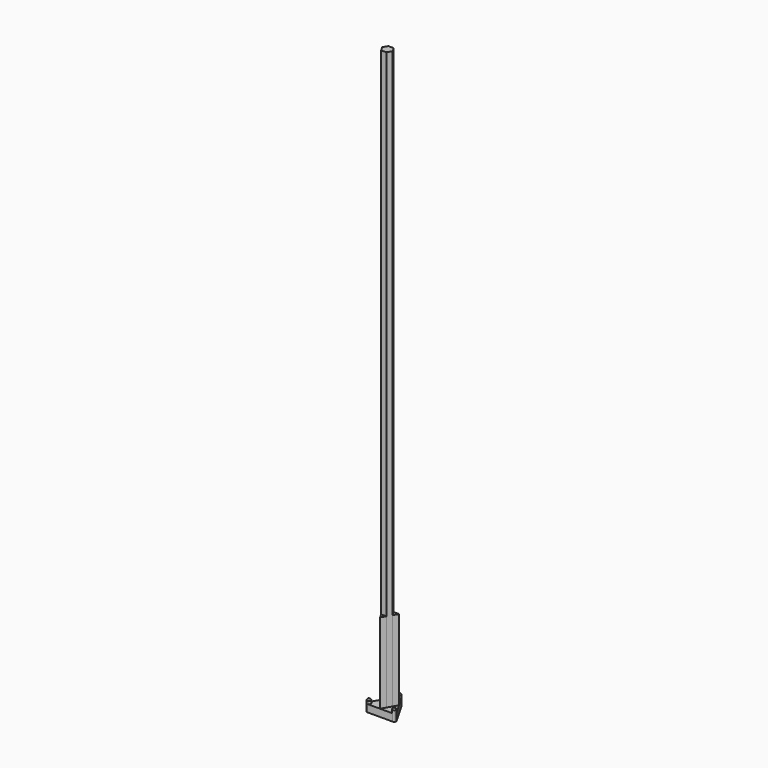
from build123d import *

# Parameters (mm, degrees)
F1_DEPTH  = 5
F2_DEPTH  = 60
F3_DEPTH  = 400
F4_DEPTH  = 8
F5_SIZE   = 1
F5_2_SIZE = 1
F5_3_SIZE = 1


with BuildPart() as f1:
    # F0 (on Top) → F1 (new body)
    with BuildSketch(Plane.XY):
        with BuildLine():
            ThreePointArc((-1.2972508431, 9.9155), (-1.435256889, 9.8964659178), (-1.5729843808, 9.875511133))
            Line((-1.5729843808, 9.875511133), (-5.4559600438, 3.15))
            Line((-5.4559600438, 3.15), (-1.8186533479, 3.15))
            Line((-1.8186533479, 3.15), (0, 6.3))
            Line((0, 6.3), (0, 8.7))
            ThreePointArc((0, 8.7), (-0.8888616315, 9.0513562312), (-1.2972508431, 9.9155))
        make_face()
        with BuildLine():
            ThreePointArc((1.2972508431, 9.9155), (0.8888616315, 9.0513562312), (0, 8.7))
            Line((0, 8.7), (0, 6.3))
            Line((0, 6.3), (1.8186533479, 3.15))
            Line((1.8186533479, 3.15), (5.4559600438, 3.15))
            Line((5.4559600438, 3.15), (1.5729843808, 9.875511133))
            ThreePointArc((1.5729843808, 9.875511133), (1.435256889, 9.8964659178), (1.2972508431, 9.9155))
        make_face()
        Polygon((-5.4559600438, 3.15), (-7.2746133918, 0), (-3.6373066959, 0), align=None)
        with BuildLine():
            Line((-3.6373066959, 0), (-7.2746133918, 0))
            Line((-7.2746133918, 0), (-9.3389357069, -3.575511133))
            ThreePointArc((-9.3389357069, -3.575511133), (-9.288219337, -3.7052640321), (-9.2357003128, -3.8342978148))
            ThreePointArc((-9.2357003128, -3.8342978148), (-8.2831352507, -3.7559013623), (-7.5344210129, -4.35))
            Line((-7.5344210129, -4.35), (-5.4559600438, -3.15))
            Line((-5.4559600438, -3.15), (-3.6373066959, 0))
        make_face()
        with BuildLine():
            Line((-1.8186533479, -3.15), (-5.4559600438, -3.15))
            Line((-5.4559600438, -3.15), (-7.5344210129, -4.35))
            ThreePointArc((-7.5344210129, -4.35), (-7.4045504637, -4.6635352414), (-7.3602540378, -5))
            ThreePointArc((-7.3602540378, -5), (-7.513880203, -5.6130473315), (-7.9384494697, -6.0812021852))
            ThreePointArc((-7.9384494697, -6.0812021852), (-7.852962448, -6.1912018858), (-7.7659513261, -6.3))
            Line((-7.7659513261, -6.3), (0, -6.3))
            Line((0, -6.3), (-1.8186533479, -3.15))
        make_face()
        with BuildLine():
            Line((1.8186533479, -3.15), (0, -6.3))
            Line((0, -6.3), (7.7659513261, -6.3))
            ThreePointArc((7.7659513261, -6.3), (7.852962448, -6.1912018858), (7.9384494697, -6.0812021852))
            ThreePointArc((7.9384494697, -6.0812021852), (7.3942736192, -5.295454869), (7.5344210129, -4.35))
            Line((7.5344210129, -4.35), (5.4559600438, -3.15))
            Line((5.4559600438, -3.15), (1.8186533479, -3.15))
        make_face()
        with BuildLine():
            Line((3.6373066959, 0), (5.4559600438, -3.15))
            Line((5.4559600438, -3.15), (7.5344210129, -4.35))
            ThreePointArc((7.5344210129, -4.35), (8.2831352507, -3.7559013623), (9.2357003128, -3.8342978148))
            ThreePointArc((9.2357003128, -3.8342978148), (9.288219337, -3.7052640321), (9.3389357069, -3.575511133))
            Line((9.3389357069, -3.575511133), (7.2746133918, 0))
            Line((7.2746133918, 0), (3.6373066959, 0))
        make_face()
        Polygon((5.4559600438, 3.15), (3.6373066959, 0), (7.2746133918, 0), align=None)
        Polygon((-5.4559600438, 3.15), (-3.6373066959, 0), (-1.8186533479, 3.15), align=None)
        Polygon((1.8186533479, -3.15), (-1.8186533479, -3.15), (0, -6.3), align=None)
        Polygon((5.4559600438, 3.15), (1.8186533479, 3.15), (3.6373066959, 0), align=None)
        with BuildLine():
            Line((1.5729843808, 9.875511133), (1.125833032, 10.6499999878))
            ThreePointArc((1.125833032, 10.6499999878), (1.255703576, 10.3364647518), (1.3, 10))
            ThreePointArc((1.3, 10), (1.299312529, 9.9577276454), (1.2972508431, 9.9155))
            ThreePointArc((1.2972508431, 9.9155), (1.435256889, 9.8964659178), (1.5729843808, 9.875511133))
        make_face()
        with BuildLine():
            Line((-1.1258330062, 10.6500000324), (-1.5729843808, 9.875511133))
            ThreePointArc((-1.5729843808, 9.875511133), (-1.435256889, 9.8964659178), (-1.2972508431, 9.9155))
            ThreePointArc((-1.2972508431, 9.9155), (-1.2659804144, 10.2954548872), (-1.1258330062, 10.6500000324))
        make_face()
        with BuildLine():
            ThreePointArc((-9.2357003128, -3.8342978148), (-9.288219337, -3.7052640321), (-9.3389357069, -3.575511133))
            Line((-9.3389357069, -3.575511133), (-9.7860870951, -4.3500000559))
            ThreePointArc((-9.7860870951, -4.3500000559), (-9.5491156929, -4.0513562533), (-9.2357003128, -3.8342978148))
        make_face()
        with BuildLine():
            ThreePointArc((-7.9384494697, -6.0812021852), (-8.2831352461, -6.2440986363), (-8.6602540282, -6.3))
            Line((-8.6602540282, -6.3), (-7.7659513261, -6.3))
            ThreePointArc((-7.7659513261, -6.3), (-7.852962448, -6.1912018858), (-7.9384494697, -6.0812021852))
        make_face()
        with BuildLine():
            ThreePointArc((9.3389357069, -3.575511133), (9.288219337, -3.7052640321), (9.2357003128, -3.8342978148))
            ThreePointArc((9.2357003128, -3.8342978148), (9.5491156757, -4.0513562371), (9.7860870714, -4.3500000149))
            Line((9.7860870714, -4.3500000149), (9.3389357069, -3.575511133))
        make_face()
        with BuildLine():
            ThreePointArc((7.9384494697, -6.0812021852), (7.852962448, -6.1912018858), (7.7659513261, -6.3))
            Line((7.7659513261, -6.3), (8.6602540378, -6.3))
            ThreePointArc((8.6602540378, -6.3), (8.2831352507, -6.2440986377), (7.9384494697, -6.0812021852))
        make_face()
        Polygon((3.6373066959, 0), (2.7279800219, -1.575), (5.4559600438, -3.15), align=None)
        Polygon((5.4559600438, -3.15), (2.7279800219, -1.575), (1.8186533479, -3.15), align=None)
        Polygon((-2.7279800219, -1.575), (-3.6373066959, 0), (-5.4559600438, -3.15), align=None)
        Polygon((-1.8186533479, -3.15), (-2.7279800219, -1.575), (-5.4559600438, -3.15), align=None)
        Polygon((0, 6.3), (-1.8186533479, 3.15), (0, 3.15), align=None)
        Polygon((0, 6.3), (0, 3.15), (1.8186533479, 3.15), align=None)
    extrude(amount=F1_DEPTH)


with BuildPart() as f2:
    # F0 (on Top) → F2 (new body)
    with BuildSketch(Plane.XY):
        Polygon((-5.4559600438, 3.15), (-3.6373066959, 0), (-1.8186533479, 3.15), align=None)
    extrude(amount=F2_DEPTH)


with BuildPart() as f2b:
    # F0 (on Top) → F2, piece 2 (new body)
    with BuildSketch(Plane.XY):
        Polygon((1.8186533479, -3.15), (-1.8186533479, -3.15), (0, -6.3), align=None)
    extrude(amount=F2_DEPTH)


with BuildPart() as f2c:
    # F0 (on Top) → F2, piece 3 (new body)
    with BuildSketch(Plane.XY):
        Polygon((5.4559600438, 3.15), (1.8186533479, 3.15), (3.6373066959, 0), align=None)
    extrude(amount=F2_DEPTH)


with BuildPart() as f3:
    # F0 (on Top) → F3 (new body)
    with BuildSketch(Plane.XY):
        Polygon((1.8186533479, 3.15), (0, 3.15), (1.8186533479, 0), (3.6373066959, 0), align=None)
        Polygon((-1.8186533479, 3.15), (-3.6373066959, 0), (-1.8186533479, 0), (0, 3.15), align=None)
        Polygon((-1.8186533479, 0), (-3.6373066959, 0), (-2.7279800219, -1.575), align=None)
        Polygon((2.7279800219, -1.575), (-2.7279800219, -1.575), (-1.8186533479, -3.15), (1.8186533479, -3.15), align=None)
        Polygon((1.8186533479, 0), (2.7279800219, -1.575), (3.6373066959, 0), align=None)
        Polygon((1.8186533479, 0), (0, 0), (2.7279800219, -1.575), align=None)
        Polygon((0, 0), (-2.7279800219, -1.575), (2.7279800219, -1.575), align=None)
        Polygon((0, 0), (-1.8186533479, 0), (-2.7279800219, -1.575), align=None)
        Polygon((0, 3.15), (-1.8186533479, 0), (0, 0), align=None)
        Polygon((2.7279800219, -1.575), (-2.7279800219, -1.575), (-1.8186533479, -3.15), (1.8186533479, -3.15), align=None)
        Polygon((0, 0), (-2.7279800219, -1.575), (2.7279800219, -1.575), align=None)
        Polygon((0, 0), (-1.8186533479, 0), (-2.7279800219, -1.575), align=None)
        Polygon((-1.8186533479, 0), (-3.6373066959, 0), (-2.7279800219, -1.575), align=None)
        Polygon((-1.8186533479, 3.15), (-3.6373066959, 0), (-1.8186533479, 0), (0, 3.15), align=None)
        Polygon((1.8186533479, 3.15), (0, 3.15), (1.8186533479, 0), (3.6373066959, 0), align=None)
        Polygon((1.8186533479, 0), (2.7279800219, -1.575), (3.6373066959, 0), align=None)
        Polygon((0, 3.15), (-1.8186533479, 0), (0, 0), align=None)
        Polygon((0, 3.15), (0, 0), (1.8186533479, 0), align=None)
    extrude(amount=F3_DEPTH)


with BuildPart() as f4:
    # F0 (on Top) → F4 (new body)
    with BuildSketch(Plane.XY):
        with BuildLine():
            ThreePointArc((0, 11.3), (-0.6499999838, 11.1258330343), (-1.1258330062, 10.6500000324))
            ThreePointArc((-1.1258330062, 10.6500000324), (-1.2659804144, 10.2954548872), (-1.2972508431, 9.9155))
            ThreePointArc((-1.2972508431, 9.9155), (-0.65, 9.9788526395), (0, 10))
            Line((0, 10), (0, 11.3))
        make_face()
        with BuildLine():
            ThreePointArc((0, 10), (-0.65, 9.9788526395), (-1.2972508431, 9.9155))
            ThreePointArc((-1.2972508431, 9.9155), (-0.8888616315, 9.0513562312), (0, 8.7))
            Line((0, 8.7), (0, 10))
        make_face()
        with BuildLine():
            ThreePointArc((1.2972508431, 9.9155), (0.65, 9.9788526395), (0, 10))
            Line((0, 10), (0, 8.7))
            ThreePointArc((0, 8.7), (0.8888616315, 9.0513562312), (1.2972508431, 9.9155))
        make_face()
        with BuildLine():
            ThreePointArc((1.125833032, 10.6499999878), (0.6500000061, 11.1258330214), (0, 11.3))
            Line((0, 11.3), (0, 10))
            ThreePointArc((0, 10), (0.65, 9.9788526395), (1.2972508431, 9.9155))
            ThreePointArc((1.2972508431, 9.9155), (1.299312529, 9.9577276454), (1.3, 10))
            ThreePointArc((1.3, 10), (1.255703576, 10.3364647518), (1.125833032, 10.6499999878))
        make_face()
    extrude(amount=F4_DEPTH)

    # F5#3
    f5_3_edges = [f4.edges().sort_by_distance(p)[0] for p in [
        (-1.297251, 10.0845, 8),
    ]]
    chamfer(f5_3_edges, length=F5_3_SIZE)


with BuildPart() as f4b:
    # F0 (on Top) → F4, piece 2 (new body)
    with BuildSketch(Plane.XY):
        with BuildLine():
            ThreePointArc((-9.2357003128, -3.8342978148), (-9.5491156929, -4.0513562533), (-9.7860870951, -4.3500000559))
            ThreePointArc((-9.7860870951, -4.3500000559), (-9.9602540378, -5.0000000323), (-9.7860870628, -5.65))
            Line((-9.7860870628, -5.65), (-8.6602540378, -5))
            ThreePointArc((-8.6602540378, -5), (-8.9669398864, -4.4265098073), (-9.2357003128, -3.8342978148))
        make_face()
        with BuildLine():
            Line((-8.6602540378, -5), (-9.7860870628, -5.65))
            ThreePointArc((-9.7860870628, -5.65), (-9.3102540337, -6.1258330273), (-8.6602540282, -6.3))
            ThreePointArc((-8.6602540282, -6.3), (-8.2831352461, -6.2440986363), (-7.9384494697, -6.0812021852))
            ThreePointArc((-7.9384494697, -6.0812021852), (-8.3169398864, -5.5523428322), (-8.6602540378, -5))
        make_face()
        with BuildLine():
            Line((-7.5344210129, -4.35), (-8.6602540378, -5))
            ThreePointArc((-8.6602540378, -5), (-8.3169398864, -5.5523428322), (-7.9384494697, -6.0812021852))
            ThreePointArc((-7.9384494697, -6.0812021852), (-7.513880203, -5.6130473315), (-7.3602540378, -5))
            ThreePointArc((-7.3602540378, -5), (-7.4045504637, -4.6635352414), (-7.5344210129, -4.35))
        make_face()
        with BuildLine():
            ThreePointArc((-7.5344210129, -4.35), (-8.2831352507, -3.7559013623), (-9.2357003128, -3.8342978148))
            ThreePointArc((-9.2357003128, -3.8342978148), (-8.9669398864, -4.4265098073), (-8.6602540378, -5))
            Line((-8.6602540378, -5), (-7.5344210129, -4.35))
        make_face()
    extrude(amount=F4_DEPTH)

    # F5
    f5_edges = [f4b.edges().sort_by_distance(p)[0] for p in [
        (-9.786087, -5.65, 8),
    ]]
    chamfer(f5_edges, length=F5_SIZE)


with BuildPart() as f4c:
    # F0 (on Top) → F4, piece 3 (new body)
    with BuildSketch(Plane.XY):
        with BuildLine():
            Line((8.6602540378, -5), (7.5344210129, -4.35))
            ThreePointArc((7.5344210129, -4.35), (7.3942736192, -5.295454869), (7.9384494697, -6.0812021852))
            ThreePointArc((7.9384494697, -6.0812021852), (8.3169398864, -5.5523428322), (8.6602540378, -5))
        make_face()
        with BuildLine():
            ThreePointArc((9.2357003128, -3.8342978148), (8.2831352507, -3.7559013623), (7.5344210129, -4.35))
            Line((7.5344210129, -4.35), (8.6602540378, -5))
            ThreePointArc((8.6602540378, -5), (8.9669398864, -4.4265098073), (9.2357003128, -3.8342978148))
        make_face()
        with BuildLine():
            ThreePointArc((9.2357003128, -3.8342978148), (8.9669398864, -4.4265098073), (8.6602540378, -5))
            Line((8.6602540378, -5), (9.7860870628, -5.65))
            ThreePointArc((9.7860870628, -5.65), (9.915957612, -5.3364647586), (9.9602540378, -5))
            ThreePointArc((9.9602540378, -5), (9.9159576142, -4.6635352497), (9.7860870714, -4.3500000149))
            ThreePointArc((9.7860870714, -4.3500000149), (9.5491156757, -4.0513562371), (9.2357003128, -3.8342978148))
        make_face()
        with BuildLine():
            ThreePointArc((7.9384494697, -6.0812021852), (8.2831352507, -6.2440986377), (8.6602540378, -6.3))
            ThreePointArc((8.6602540378, -6.3), (9.3102540378, -6.1258330249), (9.7860870628, -5.65))
            Line((9.7860870628, -5.65), (8.6602540378, -5))
            ThreePointArc((8.6602540378, -5), (8.3169398864, -5.5523428322), (7.9384494697, -6.0812021852))
        make_face()
    extrude(amount=F4_DEPTH)

    # F5#2
    f5_2_edges = [f4c.edges().sort_by_distance(p)[0] for p in [
        (9.382059, -3.918798, 8),
    ]]
    chamfer(f5_2_edges, length=F5_2_SIZE)


solid = Compound([f1.part, f2.part, f2b.part, f2c.part, f3.part, f4.part, f4b.part, f4c.part])
